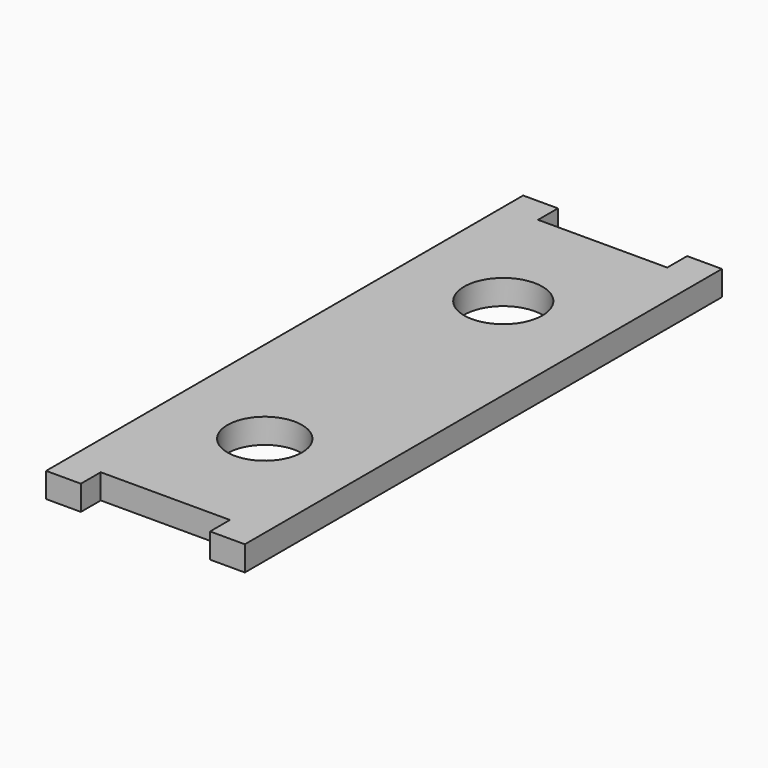
from build123d import *

# Parameters (mm, degrees)
F0_R     = 4.7625
F0_R_2   = 5
F1_DEPTH = 3.175


with BuildPart() as f1:
    # F0 (on Top) → F1 (new body)
    with BuildSketch(Plane.XY):
        Polygon((12.7, -38.1), (12.7, 38.1), (8.255, 38.1), (8.255, 34.925), (-8.255, 34.925), (-8.255, 38.1), (-12.7, 38.1), (-12.7, -38.1), (-8.255, -38.1), (-8.255, -34.925), (8.255, -34.925), (8.255, -38.1), align=None)
        with Locations((0, -19.05)):
            Circle(F0_R, mode=Mode.SUBTRACT)
        with Locations((0, 19.05)):
            Circle(F0_R_2, mode=Mode.SUBTRACT)
    extrude(amount=F1_DEPTH)


solid = f1.part
